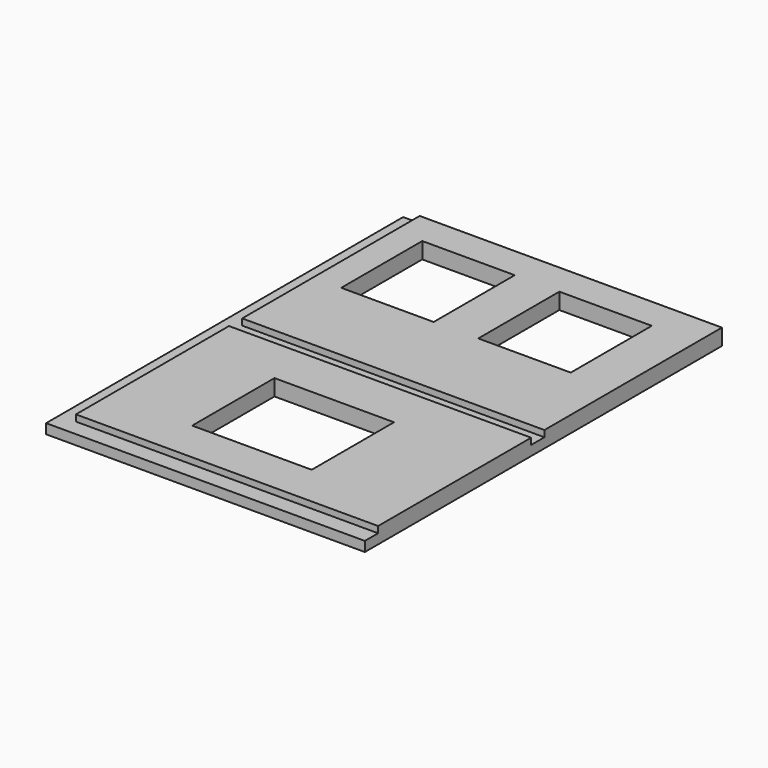
from build123d import *

# Parameters (mm, degrees)
SKETCH004_W   = 250
SKETCH004_H   = 350
SKETCH004_W_2 = 72.514309
SKETCH004_H_2 = 79.45462
SKETCH004_W_3 = 72.51431
SKETCH004_W_4 = 93.749451
SKETCH004_H_3 = 80.706021
PAD004_DEPTH  = 12.7
POCKET_DEPTH  = 5


with BuildPart() as obj1:
    # Sketch004 → Pad004 (new body)
    with BuildSketch(Plane.XY):
        with Locations((749.003465, 175)):
            Rectangle(SKETCH004_W, SKETCH004_H)
        with Locations((695.260619, 285.27269)):
            Rectangle(SKETCH004_W_2, SKETCH004_H_2, mode=Mode.SUBTRACT)
        with Locations((802.74631, 285.27269)):
            Rectangle(SKETCH004_W_3, SKETCH004_H_2, mode=Mode.SUBTRACT)
        with Locations((749.232575, 86.171351)):
            Rectangle(SKETCH004_W_4, SKETCH004_H_3, mode=Mode.SUBTRACT)
    extrude(amount=PAD004_DEPTH)

    # Sketch005 (on Face18 of Pad004) → Pocket (cut)
    with BuildSketch(Plane.XY.offset(12.7)):
        Polygon((609.961363, 176), (861.003465, 176), (861.003465, 350), (874.003465, 350), (874.003465, 0), (614.691284, 0), (614.691284, 13), (861.003465, 13), (861.003465, 163), (609.961363, 163), align=None)
    extrude(amount=-POCKET_DEPTH, mode=Mode.SUBTRACT)


with BuildPart() as obj2:
    # Mirror: instance of obj1
    add(obj1.part.mirror(Plane(origin=(879.241577, 357.188568, 0), x_dir=(0, 1, 0), z_dir=(-1, 0, 0))))


solid = obj2.part
